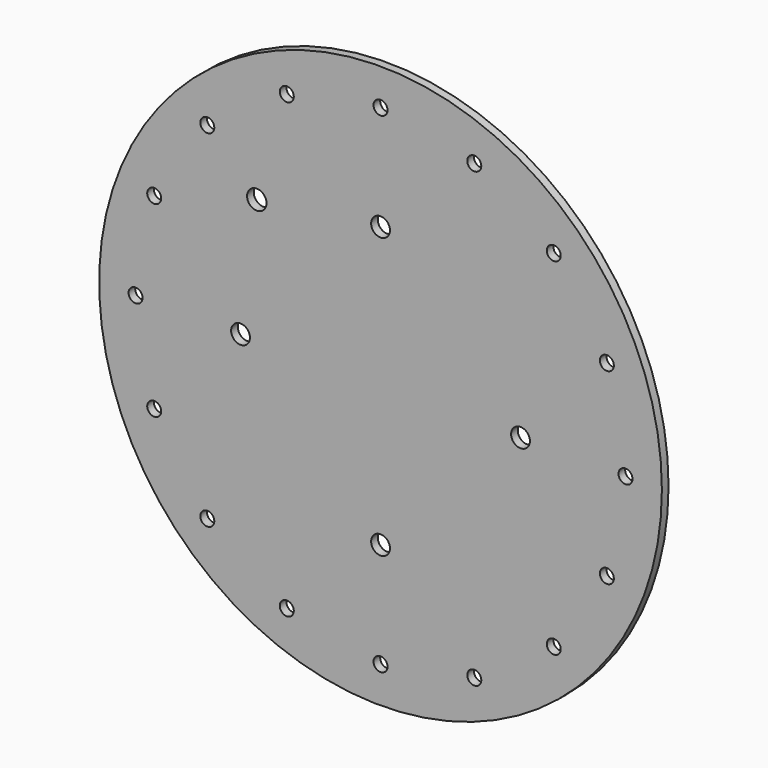
from build123d import *

# Parameters (mm, degrees)
F0_R     = 160.8
F1_DEPTH = 4.763
F3_D     = 10.75
F5_D     = 8
F7_D     = 11.1


with BuildPart() as f1:
    # F0 (on Front) → F1 (new body)
    with BuildSketch(Plane.XZ):
        Circle(F0_R)
    extrude(amount=F1_DEPTH)

    # F3 (through all)
    with Locations(Plane.XZ.offset(4.763)):
        with Locations((-80, 0), (0, 80), (80, 0), (0, -80)):
            Hole(F3_D / 2)

    # F5 (through all)
    with Locations(Plane.XZ.offset(4.763)):
        with Locations((-53.575681, 129.343135), (0, 140), (53.575681, 129.343135), (98.994949, 98.994949), (129.343135, 53.575681), (140, 0), (129.343135, -53.575681), (98.994949, -98.994949), (53.575681, -129.343135), (0, -140), (-53.575681, -129.343135), (-98.994949, -98.994949), (-129.343135, -53.575681), (-140, 0), (-129.343135, 53.575681), (-98.994949, 98.994949)):
            Hole(F5_D / 2)

    # F7 (through all)
    with Locations(Plane.XZ.offset(4.763)):
        with Locations((-70.710678, 70.710678)):
            Hole(F7_D / 2)


solid = f1.part
